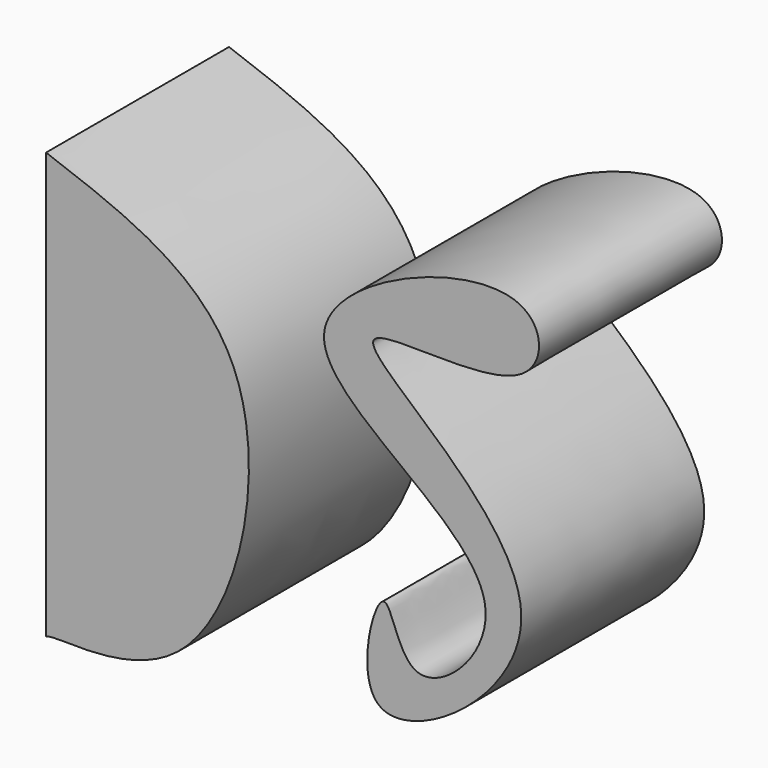
from build123d import *

# Parameters (mm, degrees)
F1_DEPTH = 50


with BuildPart() as f1:
    # F0 (on Front) → F1 (new body)
    with BuildSketch(Plane.XZ):
        with BuildLine():
            add(Edge.make_bspline(
                [(-58.5789494216, 47.2500026226), (-41.0648534395, 40.9110627185), (-4.6162164451, 27.7190761192), (-20.2884921586, -48.5748848771), (-55.5509430347, -45.175087657), (-58.0056325858, -45.7371450828), (-58.5789494216, -45.8684191108)],
                knots=[0, 0, 0, 0, 0.3296771922, 0.6860921806, 0.926683748, 1, 1, 1, 1], degree=3))
            Line((-58.5789494216, 47.2500026226), (-58.5789494216, -45.8684191108))
        make_face()
    extrude(amount=F1_DEPTH)


with BuildPart() as f1b:
    # F0 (on Front) → F1, piece 2 (new body)
    with BuildSketch(Plane.XZ):
        with BuildLine():
            add(Edge.make_bspline(
                [(45.3157909214, 38.407895714), (36.7965977746, 33.1423952031), (-14.5750315916, 44.0531709276), (73.960815496, -5.2555874166), (3.8973676372, -53.3476360897), (15.7950925214, -3.1184399545), (19.5850402384, -37.0036271323), (56.2323014307, -1.4104277392), (-29.4809080164, 30.7214493509), (49.7964310006, 63.4643966433), (50.8117023693, 41.8047813156), (45.3157909214, 38.407895714)],
                knots=[0, 0, 0, 0, 0.1136305523, 0.2585322315, 0.3870514579, 0.4765094333, 0.548773962, 0.6453891938, 0.7906450032, 0.9266945305, 1, 1, 1, 1], degree=3))
        make_face()
    extrude(amount=F1_DEPTH)


solid = Compound([f1.part, f1b.part])
